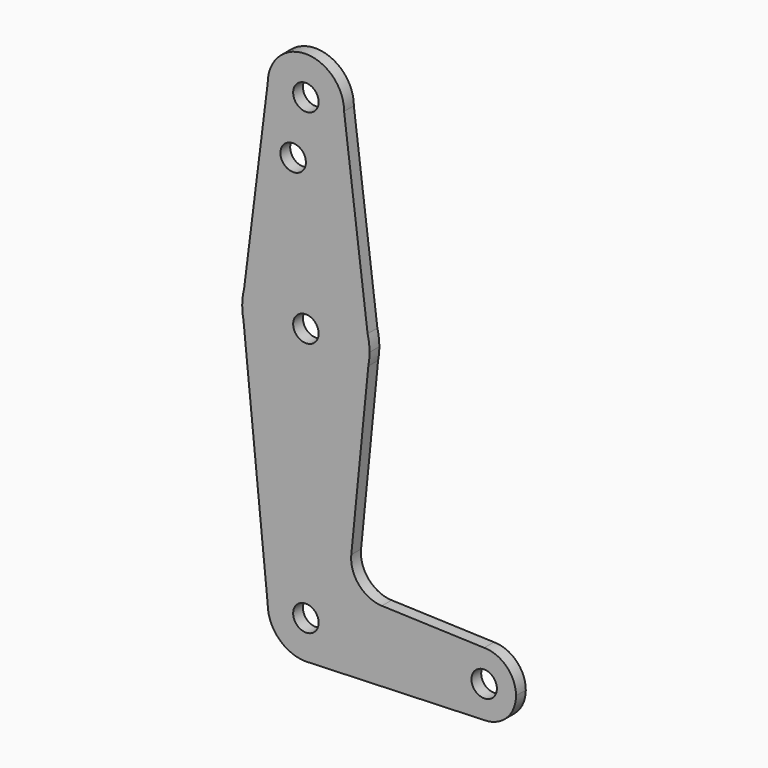
from build123d import *

# Parameters (mm, degrees)
F0_R     = 3.175
F1_DEPTH = 3.048


with BuildPart() as f1:
    # F0 (on Front) → F1 (new body)
    with BuildSketch(Plane.XZ):
        with BuildLine():
            ThreePointArc((-9.525, 114.3), (0, 104.775), (9.525, 114.3))
            ThreePointArc((9.525, 114.3), (0, 123.825), (-9.525, 114.3))
        make_face()
        with Locations((0, 114.3)):
            Circle(F0_R, mode=Mode.SUBTRACT)
        with BuildLine():
            Line((15.3865384615, 67.4076923077), (9.525, 114.3))
            ThreePointArc((9.525, 114.3), (0, 104.775), (-9.525, 114.3))
            Line((-9.525, 114.3), (-15.3865384615, 67.4076923077))
            ThreePointArc((-15.3865384615, 67.4076923077), (0, 79.375), (15.3865384615, 67.4076923077))
        make_face()
        with Locations((-3.175, 100.0252)):
            Circle(F0_R, mode=Mode.SUBTRACT)
        with BuildLine():
            Line((15.875, 63.5), (15.3865384615, 67.4076923077))
            ThreePointArc((15.3865384615, 67.4076923077), (0, 79.375), (-15.3865384615, 67.4076923077))
            Line((-15.3865384615, 67.4076923077), (-15.875, 63.5))
            Line((-15.875, 63.5), (-15.5606435644, 60.3564356436))
            ThreePointArc((-15.5606435644, 60.3564356436), (0.0115875772, 47.625004229), (15.5652161214, 60.3791552277))
            Line((15.5652161214, 60.3791552277), (15.875, 63.5))
        make_face()
        with Locations((0, 63.5)):
            Circle(F0_R, mode=Mode.SUBTRACT)
        with BuildLine():
            ThreePointArc((15.875, 63.5), (15.7524112928, 65.4690514116), (15.3865384615, 67.4076923077))
            Line((15.3865384615, 67.4076923077), (15.875, 63.5))
        make_face()
        with BuildLine():
            Line((-15.875, 63.5), (-15.3865384615, 67.4076923077))
            ThreePointArc((-15.3865384615, 67.4076923077), (-15.7524112928, 65.4690514116), (-15.875, 63.5))
        make_face()
        with BuildLine():
            ThreePointArc((15.5652161214, 60.3791552277), (15.7973641936, 61.9319089516), (15.875, 63.5))
            Line((15.875, 63.5), (15.5652161214, 60.3791552277))
        make_face()
        with BuildLine():
            Line((-15.5606435644, 60.3564356436), (-15.875, 63.5))
            ThreePointArc((-15.875, 63.5), (-15.7962153946, 61.9203784605), (-15.5606435644, 60.3564356436))
        make_face()
        with BuildLine():
            Line((11.3167370079, 17.5788523406), (15.5652161214, 60.3791552277))
            ThreePointArc((15.5652161214, 60.3791552277), (0.0115875772, 47.625004229), (-15.5606435644, 60.3564356436))
            Line((-15.5606435644, 60.3564356436), (-9.525, 0))
            ThreePointArc((-9.525, 0), (0, 9.525), (9.525, 0))
            ThreePointArc((9.525, 0), (6.9712901065, -6.4905114784), (0.6794904459, -9.5007324841))
            Line((0.6794904459, -9.5007324841), (44.45, -7.9375))
            ThreePointArc((44.45, -7.9375), (36.5125, 0), (44.45, 7.9375))
            Line((44.45, 7.9375), (18.9443021901, 8.8484177789))
            ThreePointArc((18.9443021901, 8.8484177789), (13.2409930554, 11.562802358), (11.3167370079, 17.5788523406))
        make_face()
        with BuildLine():
            ThreePointArc((9.525, 0), (0, 9.525), (-9.525, 0))
            ThreePointArc((-9.525, 0), (-6.7351920908, -6.7351920908), (0, -9.525))
            Line((0, -9.525), (0.6794904459, -9.5007324841))
            ThreePointArc((0.6794904459, -9.5007324841), (6.9712901065, -6.4905114784), (9.525, 0))
        make_face()
        Circle(F0_R, mode=Mode.SUBTRACT)
        with BuildLine():
            Line((0.6794904459, -9.5007324841), (0, -9.525))
            ThreePointArc((0, -9.525), (0.3399618281, -9.5189311877), (0.6794904459, -9.5007324841))
        make_face()
        with BuildLine():
            ThreePointArc((52.3875, 0), (50.0626600757, 5.6126600757), (44.45, 7.9375))
            ThreePointArc((44.45, 7.9375), (36.5125, 0), (44.45, -7.9375))
            ThreePointArc((44.45, -7.9375), (50.0626600757, -5.6126600757), (52.3875, 0))
        make_face()
        with Locations((44.45, 0)):
            Circle(F0_R, mode=Mode.SUBTRACT)
    extrude(amount=F1_DEPTH)


solid = f1.part
